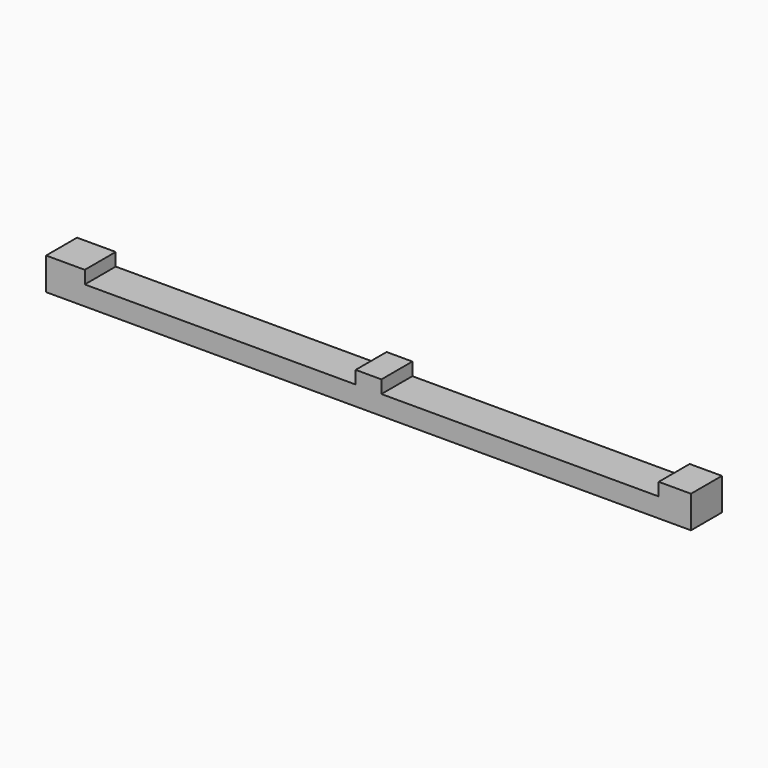
from build123d import *

# Parameters (mm, degrees)
F0_W     = 100
F0_H     = 6
F1_DEPTH = 3
F2_W     = 6
F2_H     = 6
F2_W_2   = 4
F2_W_3   = 5
F3_DEPTH = 2


with BuildPart() as f1:
    # F0 (on Top) → F1 (new body)
    with BuildSketch(Plane.XY):
        Rectangle(F0_W, F0_H)
    extrude(amount=F1_DEPTH)

    # F2 (on face) → F3 (join)
    with BuildSketch(Plane.XY.offset(3)):
        with Locations((-47, 0)):
            Rectangle(F2_W, F2_H)
        Rectangle(F2_W_2, F2_H)
        with Locations((47.5, 0)):
            Rectangle(F2_W_3, F2_H)
    extrude(amount=F3_DEPTH)


solid = f1.part
